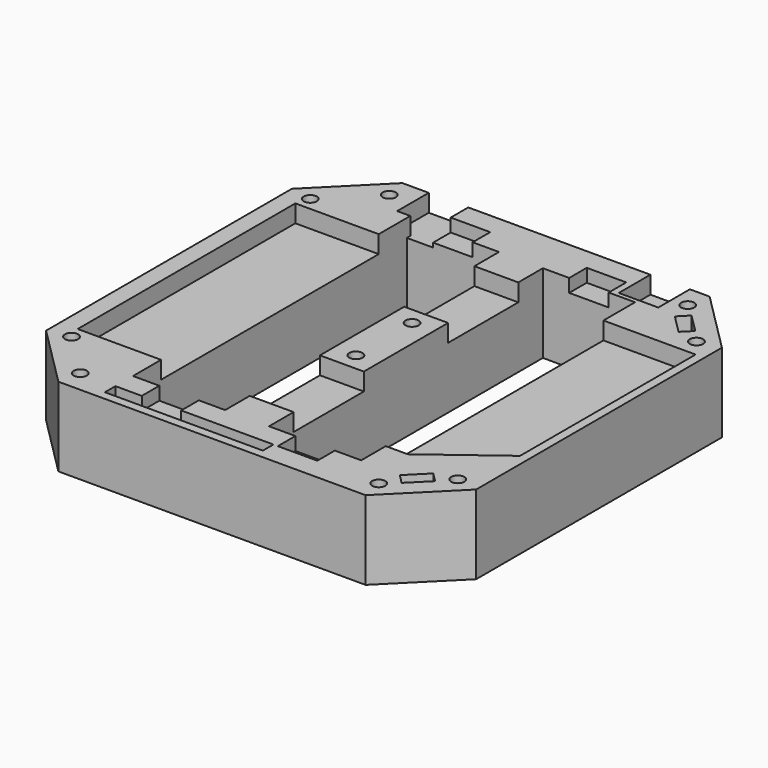
from build123d import *

# Parameters (mm, degrees)
PAD_DEPTH       = 18
SKETCH001_R     = 1.5
POCKET_DEPTH    = 18.001
SKETCH002_W     = 21
SKETCH002_H     = 78
POCKET001_DEPTH = 18.001
SKETCH003_W     = 9
SKETCH003_H     = 88
POCKET002_DEPTH = 3
SKETCH004_W     = 12
SKETCH004_H     = 20
SKETCH004_W_2   = 19
SKETCH004_H_2   = 62
SKETCH004_W_3   = 9
SKETCH004_H_3   = 9
SKETCH004_W_4   = 36
SKETCH004_H_4   = 3
POCKET003_DEPTH = 4
SKETCH005_W     = 6
SKETCH005_H     = 1
POCKET004_DEPTH = 4


with BuildPart() as part:
    # Sketch → Pad (new body)
    with BuildSketch(Plane.XY):
        Polygon((-49, 35), (-35, 49), (35, 49), (49, 35), (49, -35), (35, -49), (-35, -49), (-49, -35), align=None)
    extrude(amount=PAD_DEPTH)

    # Sketch001 (on DatumPlane) → Pocket (cut, through all)
    with BuildSketch(Plane.XY.offset(18)):
        with Locations((-34, 44)):
            Circle(SKETCH001_R)
        with Locations((34, 44)):
            Circle(SKETCH001_R)
        with Locations((44, 34)):
            Circle(SKETCH001_R)
        with Locations((-44, 34)):
            Circle(SKETCH001_R)
        with Locations((-44, -34)):
            Circle(SKETCH001_R)
        with Locations((-34, -44)):
            Circle(SKETCH001_R)
        with Locations((34, -44)):
            Circle(SKETCH001_R)
        with Locations((44, -34)):
            Circle(SKETCH001_R)
        with Locations((0, 8)):
            Circle(SKETCH001_R)
        with Locations((0, -8)):
            Circle(SKETCH001_R)
    extrude(amount=-POCKET_DEPTH, mode=Mode.SUBTRACT)

    # Sketch002 (on DatumPlane) → Pocket001 (cut, through all)
    with BuildSketch(Plane.XY.offset(18)):
        with Locations((-15.5, 0)):
            Rectangle(SKETCH002_W, SKETCH002_H)
        with Locations((15.5, 0)):
            Rectangle(SKETCH002_W, SKETCH002_H)
    extrude(amount=-POCKET001_DEPTH, mode=Mode.SUBTRACT)

    # Sketch003 (on DatumPlane) → Pocket002 (cut)
    with BuildSketch(Plane.XY.offset(18)):
        with Locations((-15.5, 0)):
            Rectangle(SKETCH003_W, SKETCH003_H)
        with Locations((15.5, 0)):
            Rectangle(SKETCH003_W, SKETCH003_H)
    extrude(amount=-POCKET002_DEPTH, mode=Mode.SUBTRACT)

    # Sketch004 (on DatumPlane) → Pocket003 (cut)
    with BuildSketch(Plane.XY.offset(18)):
        with Locations((0, 22)):
            Rectangle(SKETCH004_W, SKETCH004_H)
        with Locations((0, -22)):
            Rectangle(SKETCH004_W, SKETCH004_H)
        with Locations((-35.5, 0)):
            Rectangle(SKETCH004_W_2, SKETCH004_H_2)
        with Locations((-24.5, 44.5)):
            Rectangle(SKETCH004_W_3, SKETCH004_H_3)
        with Locations((26, 44.5)):
            Rectangle(SKETCH004_W_3, SKETCH004_H_3)
        Polygon((37.050253, 41.292893), (41.292893, 37.050253), (39.171573, 34.928932), (34.928932, 39.171573), align=None)
        Polygon((34.928932, -39.171573), (37.050253, -41.292893), (41.292893, -37.050253), (39.171573, -34.928932), align=None)
        with Locations((-8, -45.5)):
            Rectangle(SKETCH004_W_4, SKETCH004_H_4)
        Polygon((47, 30), (26, 30), (26, -32), (31, -32), (47, -20), align=None)
    extrude(amount=-POCKET003_DEPTH, mode=Mode.SUBTRACT)

    # Sketch005 (on DatumPlane) → Pocket004 (cut)
    with BuildSketch(Plane.XY.offset(18)):
        with Locations((-23, 39.5)):
            Rectangle(SKETCH005_W, SKETCH005_H)
    extrude(amount=-POCKET004_DEPTH, mode=Mode.SUBTRACT)


solid = part.part
